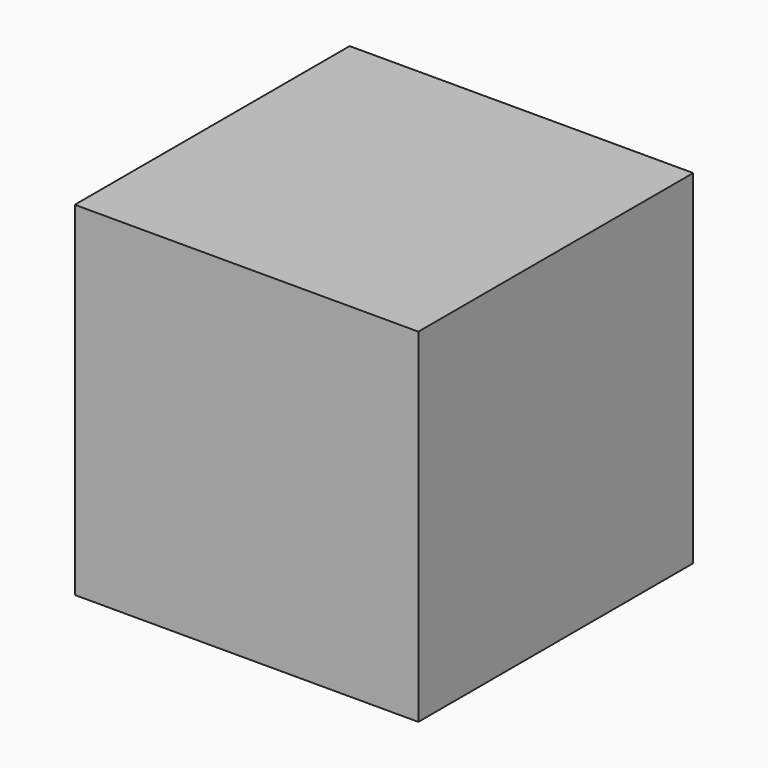
from build123d import *

# Parameters (mm, degrees)
F0_W     = 76.2
F0_H     = 76.2
F1_DEPTH = 76.2


with BuildPart() as f1:
    # F0 (on Front) → F1 (new body)
    with BuildSketch(Plane.XZ):
        with Locations((38.1, 38.1)):
            Rectangle(F0_W, F0_H)
    extrude(amount=F1_DEPTH)

    # F2 (on face) → F3 (revolve, cut)
    with BuildSketch(Plane.XZ):
        with BuildLine():
            Line((66.872552, 73.753443), (66.872552, 61.053443))
            ThreePointArc((66.872552, 61.053443), (73.222552, 67.403443), (66.872552, 73.753443))
        make_face()
    revolve(axis=Axis((66.872552, 0, 38.640488), (0, 0, -1)), mode=Mode.SUBTRACT)

    # F4 (on face) → F5 (revolve, cut)
    with BuildSketch(Plane.XZ):
        with BuildLine():
            Line((41.434311, 45.710968), (41.434311, 33.010968))
            ThreePointArc((41.434311, 33.010968), (47.784311, 39.360968), (41.434311, 45.710968))
        make_face()
    revolve(axis=Axis((41.434311, 0, 37.213955), (0, 0, -1)), mode=Mode.SUBTRACT)


solid = f1.part
